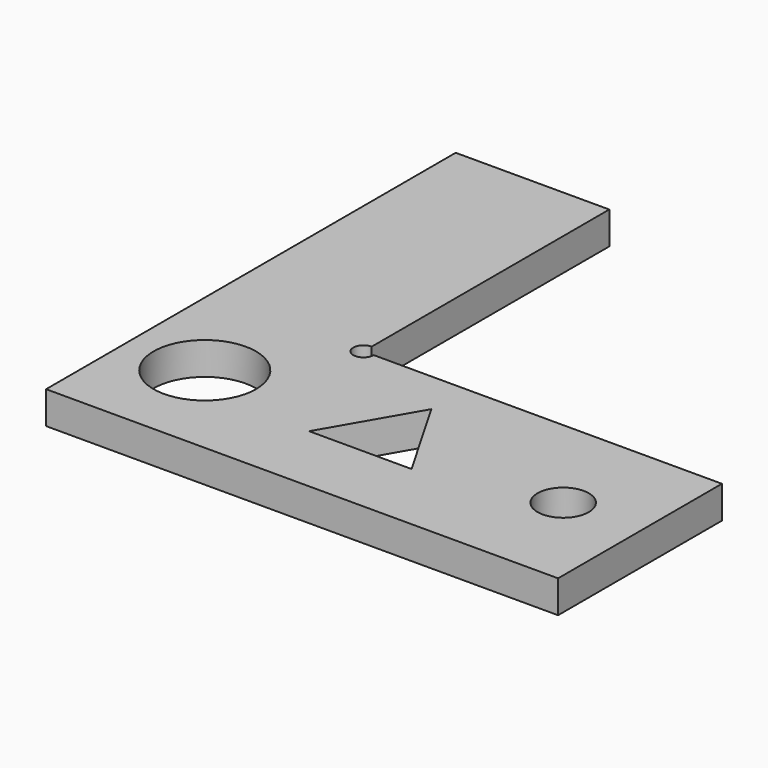
from build123d import *

# Parameters (mm, degrees)
F0_R     = 10
F0_R_2   = 5
F1_DEPTH = 6.35


with BuildPart() as f1:
    # F0 (on Top) → F1 (new body)
    with BuildSketch(Plane.XY):
        with BuildLine():
            Line((15, 22), (15, 80))
            Line((15, 80), (-15, 80))
            Line((-15, 80), (-15, -20))
            Line((-15, -20), (85, -20))
            Line((85, -20), (85, 20))
            Line((85, 20), (17, 20))
            ThreePointArc((17, 20), (13.585786, 18.585786), (15, 22))
        make_face()
        Circle(F0_R, mode=Mode.SUBTRACT)
        Polygon((25, -5.773503), (35, 11.547005), (45, -5.773503), align=None, mode=Mode.SUBTRACT)
        with Locations((70, 0)):
            Circle(F0_R_2, mode=Mode.SUBTRACT)
    extrude(amount=F1_DEPTH)


solid = f1.part
